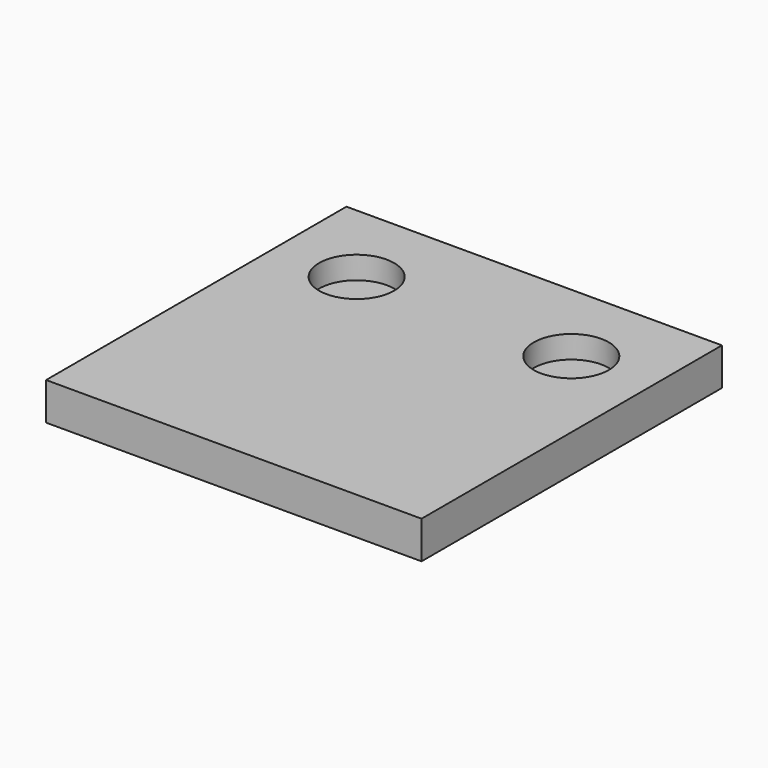
from build123d import *

# Parameters (mm, degrees)
SKETCH_W     = 50
SKETCH_H     = 50
PAD_DEPTH    = 5
SKETCH001_R  = 5
POCKET_DEPTH = 3


with BuildPart() as part:
    # Sketch → Pad (new body)
    with BuildSketch(Plane.XY):
        Rectangle(SKETCH_W, SKETCH_H)
    extrude(amount=PAD_DEPTH)

    # Sketch001 (on Face6 of Pad) → Pocket (cut)
    with BuildSketch(Plane.XY.offset(5)):
        with Locations((-14.29406, 13.309855)):
            Circle(SKETCH001_R)
    pocket = extrude(amount=-POCKET_DEPTH, mode=Mode.SUBTRACT)

    # Mirrored: Pocket across Sketch001 V_Axis
    add(pocket.mirror(Plane(origin=(0, 0, 5), x_dir=(0, 0, 1), z_dir=(1, 0, 0))), mode=Mode.SUBTRACT)


solid = part.part
